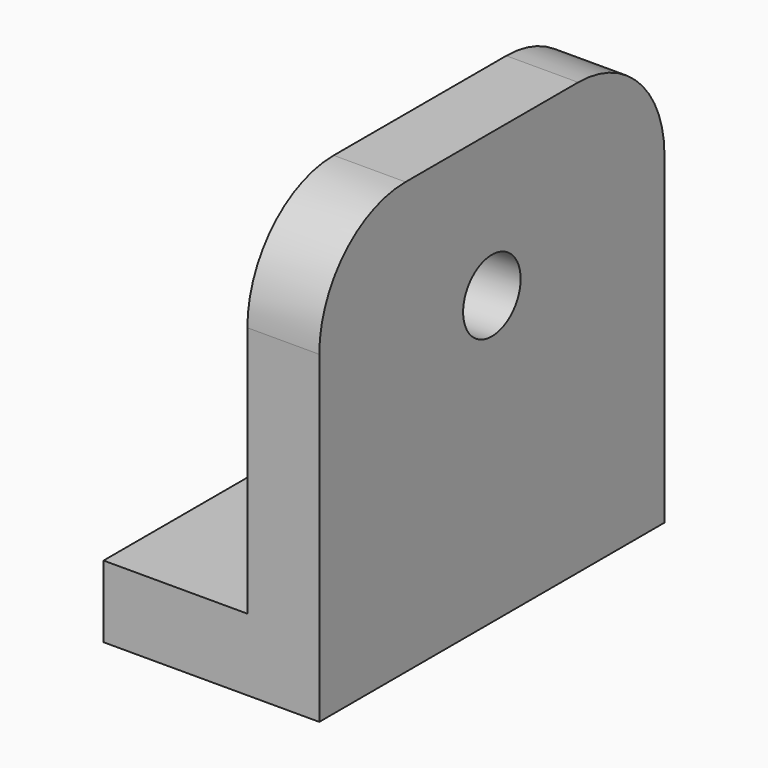
from build123d import *

# Parameters (mm, degrees)
F1_DEPTH = 76.2
F2_R     = 12.7
F3_DEPTH = 25.4
F5_DEPTH = 25.4
F6_R     = 38.1
F7_R     = 38.1
F8_R     = 19.629033
F8_R_2   = 12.7
F9_DEPTH = 6.35


with BuildPart() as f1:
    # F0 (on Front) → F1 (new body, symmetric)
    with BuildSketch(Plane.XZ):
        Polygon((-76.2, 0), (0, 0), (0, 152.4), (-25.4, 152.4), (-25.4, 25.4), (-76.2, 25.4), align=None)
    extrude(amount=F1_DEPTH, both=True)

    # F2 (on face) → F3 (cut)
    with BuildSketch(Plane.YZ):
        with Locations((0, 101.6)):
            Circle(F2_R)
    extrude(amount=-F3_DEPTH, mode=Mode.SUBTRACT)

    # F4 (on face) → F5 (cut)
    with BuildSketch(Plane(origin=(0, 0, 0), x_dir=(1, 0, 0), z_dir=(0, 0, -1))):
        with BuildLine():
            ThreePointArc((-63.500749, -6.349625), (-69.781771, 0), (-63.500749, 6.349625))
            Line((-63.500749, 6.349625), (-76.2, 6.211669))
            Line((-76.2, 6.211669), (-76.2, -6.211669))
            Line((-76.2, -6.211669), (-63.500749, -6.349625))
        make_face()
        with BuildLine():
            ThreePointArc((-63.500749, -6.349625), (-58.966097, -4.51445), (-57.081771, 0))
            ThreePointArc((-57.081771, 0), (-58.966097, 4.51445), (-63.500749, 6.349625))
            ThreePointArc((-63.500749, 6.349625), (-69.781771, 0), (-63.500749, -6.349625))
        make_face()
    extrude(amount=-F5_DEPTH, mode=Mode.SUBTRACT)

    # F6
    f6_edges = [f1.edges().sort_by_distance(p)[0] for p in [
        (-12.7, -76.2, 152.4),
    ]]
    fillet(f6_edges, radius=F6_R)

    # F7
    f7_edges = [f1.edges().sort_by_distance(p)[0] for p in [
        (-12.7, 76.2, 152.4),
    ]]
    fillet(f7_edges, radius=F7_R)

    # F8 (on face) → F9 (cut)
    with BuildSketch(Plane(origin=(-25.4, 0, 0), x_dir=(0, -1, 0), z_dir=(-1, 0, 0))):
        with Locations((0, 101.6)):
            Circle(F8_R)
        with Locations((0, 101.6)):
            Circle(F8_R_2, mode=Mode.SUBTRACT)
    extrude(amount=-F9_DEPTH, mode=Mode.SUBTRACT)


solid = f1.part
